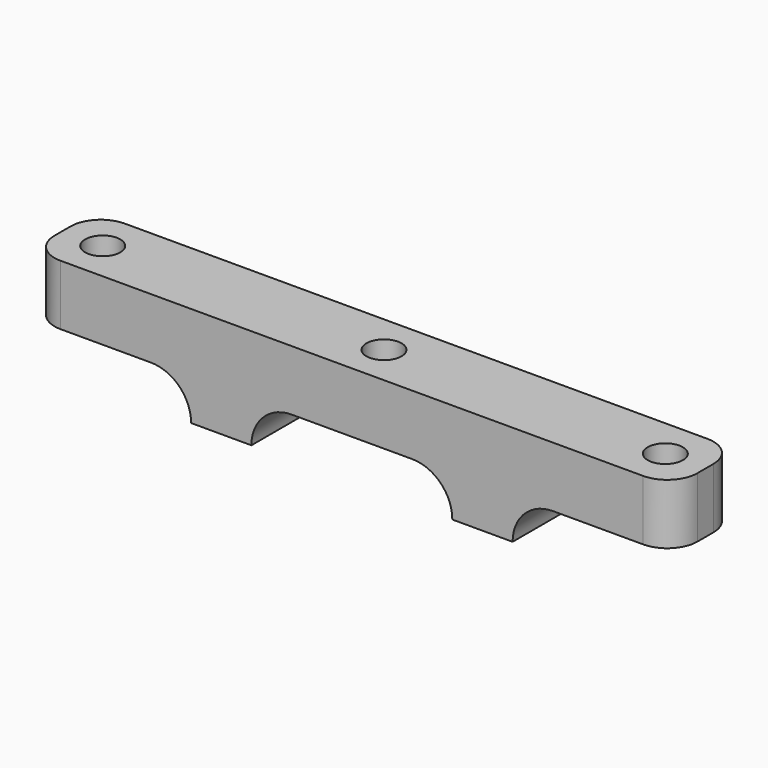
from build123d import *

# Parameters (mm, degrees)
F0_W     = 64
F0_H     = 8
F0_R     = 1.75
F1_DEPTH = 10
F3_DEPTH = 10
F4_R     = 3


with BuildPart() as f1:
    # F0 (on Top) → F1 (new body)
    with BuildSketch(Plane.XY):
        with Locations((32, 4)):
            Rectangle(F0_W, F0_H)
        with Locations((4, 4)):
            Circle(F0_R, mode=Mode.SUBTRACT)
        with Locations((32, 4)):
            Circle(F0_R, mode=Mode.SUBTRACT)
        with Locations((60, 4)):
            Circle(F0_R, mode=Mode.SUBTRACT)
    extrude(amount=F1_DEPTH)

    # F2 (on face) → F3 (cut)
    with BuildSketch(Plane.XZ):
        with BuildLine():
            ThreePointArc((52, 4), (49.171573, 2.828427), (48, 0))
            Line((48, 0), (64, 0))
            Line((64, 0), (64, 4))
            Line((64, 4), (52, 4))
        make_face()
        with BuildLine():
            ThreePointArc((26, 4), (23.171573, 2.828427), (22, 0))
            Line((22, 0), (42, 0))
            ThreePointArc((42, 0), (40.828427, 2.828427), (38, 4))
            Line((38, 4), (26, 4))
        make_face()
        with BuildLine():
            ThreePointArc((16, 0), (14.828427, 2.828427), (12, 4))
            Line((12, 4), (0, 4))
            Line((0, 4), (0, 0))
            Line((0, 0), (16, 0))
        make_face()
    extrude(amount=-F3_DEPTH, mode=Mode.SUBTRACT)

    # F4
    f4_edges = [f1.edges().sort_by_distance(p)[0] for p in [
        (0, 0, 7),
        (0, 8, 7),
        (64, 0, 7),
        (64, 8, 7),
    ]]
    fillet(f4_edges, radius=F4_R)


solid = f1.part
